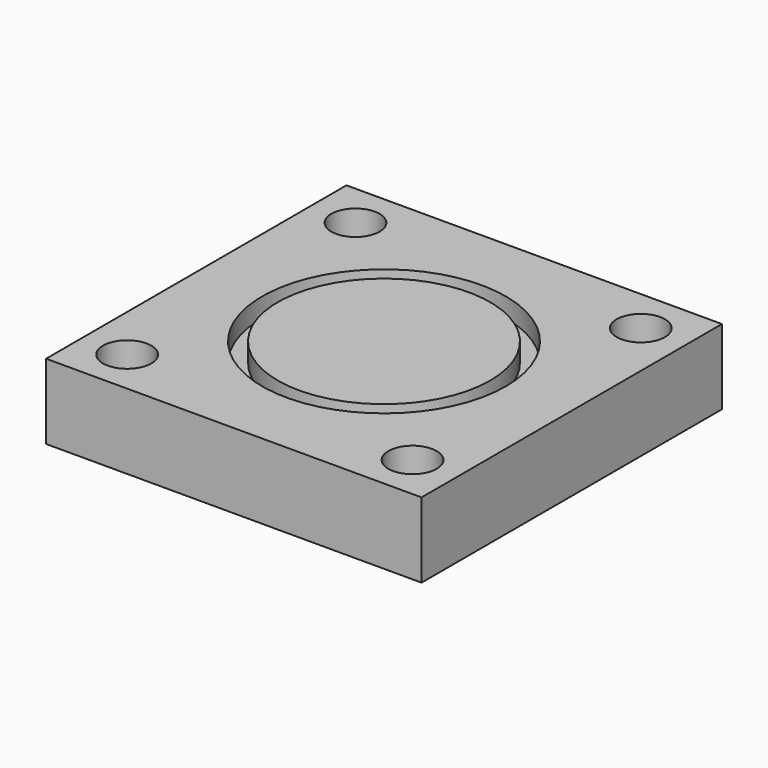
from build123d import *

# Parameters (mm, degrees)
F0_W     = 39.6875
F0_H     = 39.6875
F0_R     = 12.8778
F0_R_2   = 11.2268
F1_DEPTH = 7.9375
F2_DEPTH = 2.032
F3_D     = 5.1054


with BuildPart() as f1:
    # F0 (on Top) → F1 (new body)
    with BuildSketch(Plane.XY):
        Rectangle(F0_W, F0_H)
        Circle(F0_R, mode=Mode.SUBTRACT)
        Circle(F0_R)
        Circle(F0_R_2, mode=Mode.SUBTRACT)
        Circle(F0_R_2)
    extrude(amount=-F1_DEPTH)

    # F0 (on Top) → F2 (cut)
    with BuildSketch(Plane.XY):
        Circle(F0_R)
        Circle(F0_R_2, mode=Mode.SUBTRACT)
    extrude(amount=-F2_DEPTH, mode=Mode.SUBTRACT)

    # F3 (through all)
    with Locations(Plane.XY):
        with Locations((-15.08125, 15.08125), (15.08125, 15.08125), (15.08125, -15.08125), (-15.08125, -15.08125)):
            Hole(F3_D / 2)


solid = f1.part
